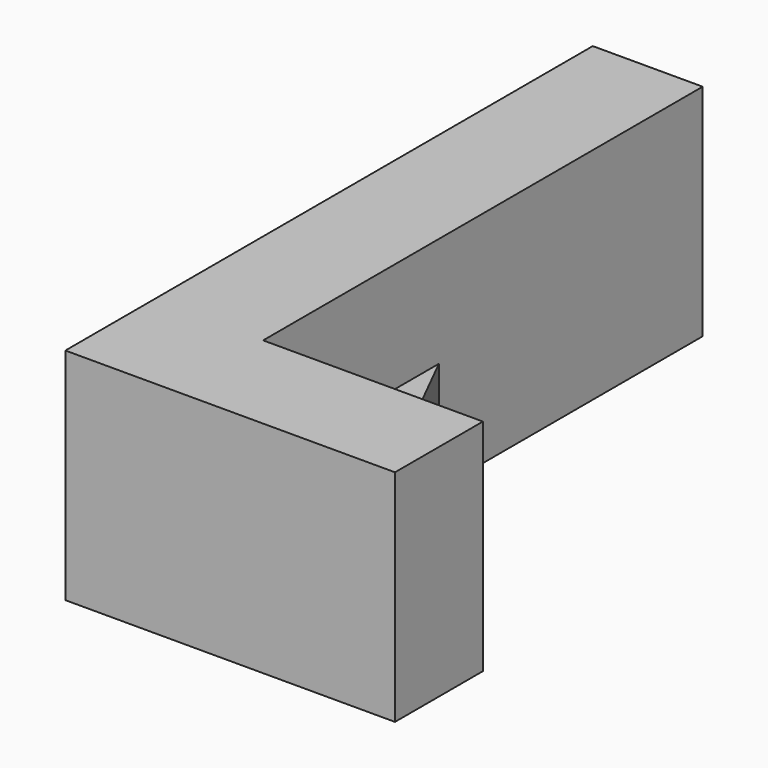
from build123d import *

# Parameters (mm, degrees)
F0_W     = 76.2
F0_H     = 50.8
F1_DEPTH = 152.4
F2_W     = 50.8
F2_H     = 127
F3_DEPTH = 50.8
F4_W     = 50.8
F4_H     = 25.4
F5_DEPTH = 25.4
F7_DEPTH = 25.4


with BuildPart() as f1:
    # F0 (on Front) → F1 (new body)
    with BuildSketch(Plane.XZ):
        with Locations((38.1, 25.4)):
            Rectangle(F0_W, F0_H)
    extrude(amount=-F1_DEPTH)

    # F2 (on face) → F3 (cut)
    with BuildSketch(Plane.XY.offset(50.8)):
        with Locations((50.8, 88.9)):
            Rectangle(F2_W, F2_H)
    extrude(amount=-F3_DEPTH, mode=Mode.SUBTRACT)

    # F4 (on face) → F5 (join)
    with BuildSketch(Plane.YZ.offset(25.4)):
        with Locations((50.8, 12.7)):
            Rectangle(F4_W, F4_H)
    extrude(amount=F5_DEPTH)

    # F6 (on face) → F7 (cut)
    with BuildSketch(Plane.XY.offset(25.4)):
        Polygon((50.8, 76.2), (25.4, 76.2), (50.8, 25.4), align=None)
    extrude(amount=-F7_DEPTH, mode=Mode.SUBTRACT)


solid = f1.part
